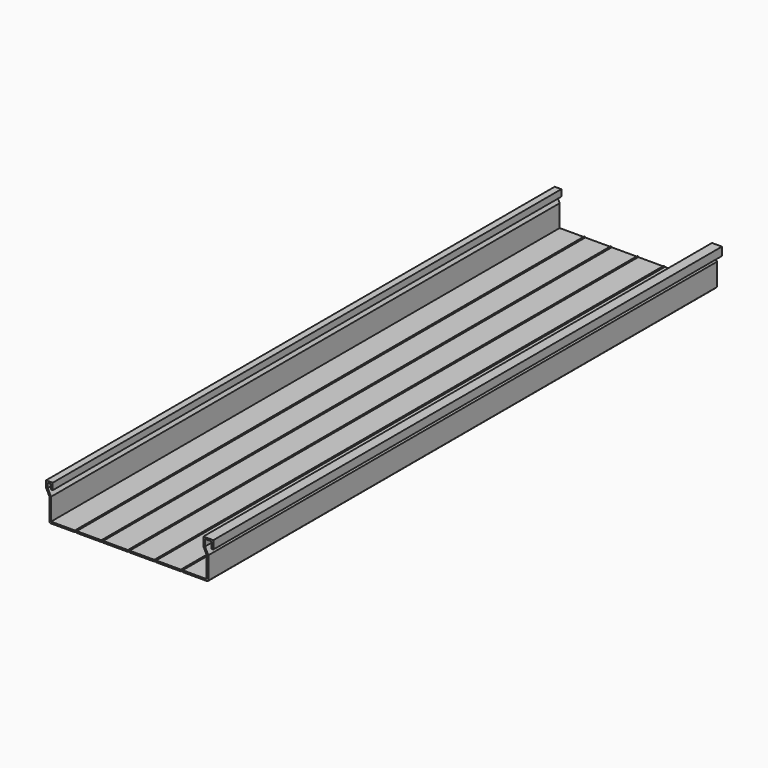
from build123d import *

# Parameters (mm, degrees)
F1_DEPTH = 1219.2


with BuildPart() as f1:
    # F0 (on Front) → F1 (new body)
    with BuildSketch(Plane.XZ):
        Polygon((9.525, 57.15), (12.7, 57.15), (12.7, 69.85), (0, 69.85), (0, 57.15), (6.35, 44.45), (6.35, 1.5875), (7.9375, 0), (55.5625, 0), (57.15, 1.5875), (58.7375, 0), (106.3625, 0), (107.95, 1.5875), (109.5375, 0), (157.1625, 0), (158.75, 1.5875), (160.3375, 0), (207.9625, 0), (209.55, 1.5875), (211.1375, 0), (258.7625, 0), (260.35, 1.5875), (261.9375, 0), (309.5625, 0), (311.15, 1.5875), (311.15, 44.45), (304.8, 57.15), (304.8, 69.85), (317.5, 69.85), (317.5, 57.15), (320.675, 57.15), (320.675, 73.025), (301.625, 73.025), (301.625, 56.400484), (307.975, 43.700484), (307.975, 3.175), (261.9375, 3.175), (260.35, 4.7625), (258.7625, 3.175), (211.1375, 3.175), (209.55, 4.7625), (207.9625, 3.175), (160.3375, 3.175), (158.75, 4.7625), (157.1625, 3.175), (109.5375, 3.175), (107.95, 4.7625), (106.3625, 3.175), (58.7375, 3.175), (57.15, 4.7625), (55.5625, 3.175), (9.525, 3.175), (9.525, 45.199516), (3.175, 57.899516), (3.175, 66.675), (9.525, 66.675), align=None)
    extrude(amount=F1_DEPTH)


solid = f1.part
